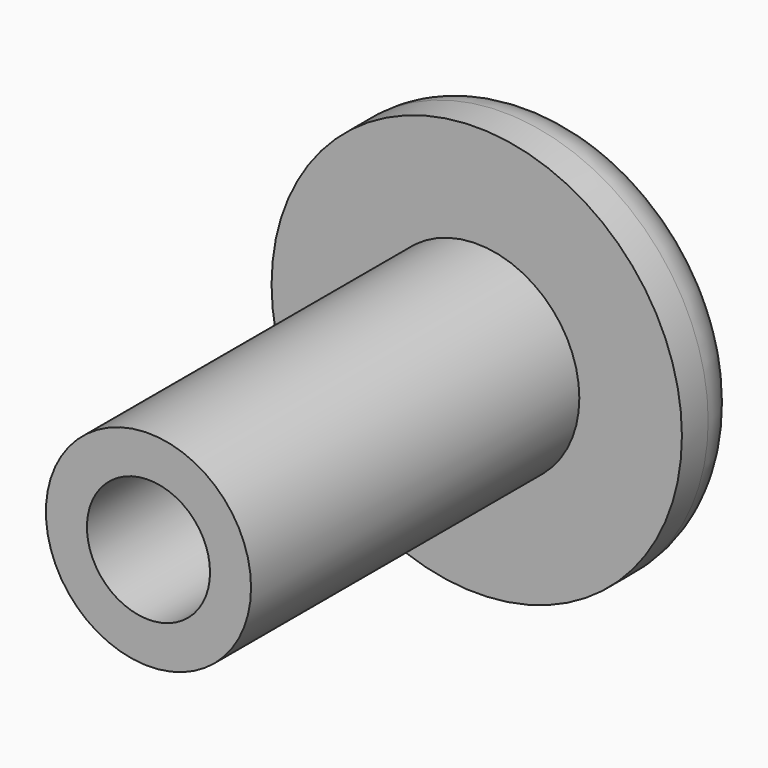
from build123d import *

# Parameters (mm, degrees)
F0_R     = 1.5875
F1_DEPTH = 6.35
F2_R     = 0.9525
F3_DEPTH = 5.08
F4_R     = 3.175
F4_R_2   = 1.5875
F5_DEPTH = 1.27
F6_R     = 0.762
F7_DEPTH = 0.254


with BuildPart() as f1:
    # F0 (on Front) → F1 (new body)
    with BuildSketch(Plane.XZ):
        Circle(F0_R)
    extrude(amount=F1_DEPTH)

    # F2 (on face) → F3 (cut)
    with BuildSketch(Plane.XZ.offset(6.35)):
        Circle(F2_R)
    extrude(amount=-F3_DEPTH, mode=Mode.SUBTRACT)

    # F4 (on face) → F5 (join)
    with BuildSketch(Plane(origin=(0, 0, 0), x_dir=(-1, 0, 0), z_dir=(0, 1, 0))):
        Circle(F4_R)
        Circle(F4_R_2, mode=Mode.SUBTRACT)
    extrude(amount=F5_DEPTH)

    # F6
    f6_edges = [f1.edges().sort_by_distance(p)[0] for p in [
        (3.175, 1.27, 0),
        (1.5875, 1.27, 0),
    ]]
    fillet(f6_edges, radius=F6_R)

    # F7 (add): a face of the model
    f7_faces = [f1.faces().sort_by_distance(p)[0] for p in [
        (0, 0, 0),
    ]]
    extrude(f7_faces, amount=F7_DEPTH)


solid = f1.part
